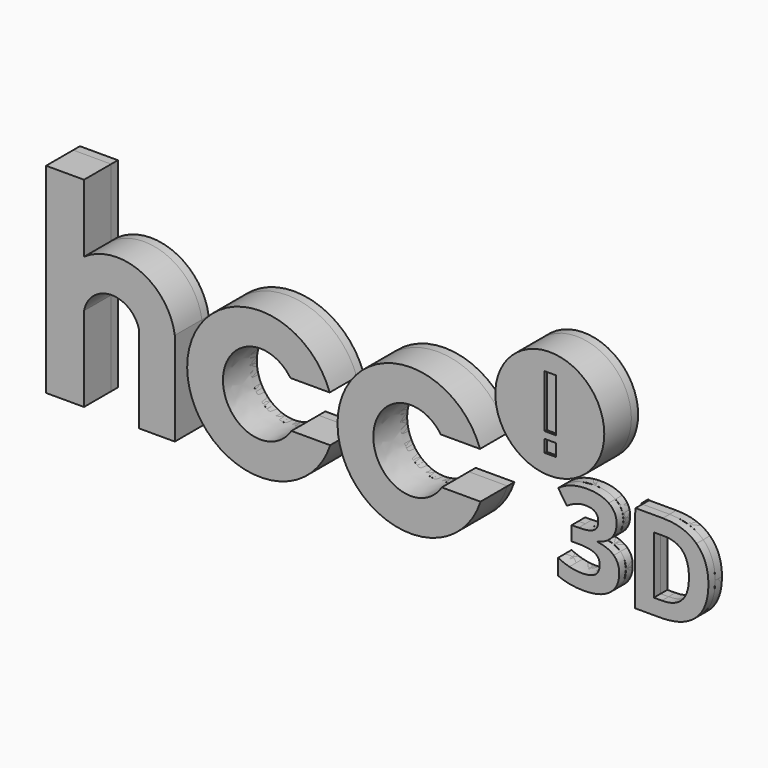
from build123d import *

# Parameters (mm, degrees)
F1_DEPTH = 5
F0_R     = 6.439210956
F0_W     = 1.3290867209
F0_H     = 1.4619943686
F0_H_2   = 6.2467027456
F2_DEPTH = 5
F3_DEPTH = 2
F4_DEPTH = 4.7
F0_W_2   = 0.0251267451
F0_H_3   = 9.9529854488
F0_W_3   = 0.0575991134
F0_H_4   = 0.4837507596
F5_DEPTH = 1


with BuildPart() as f1:
    # F0 (on Front) → F1 (new body)
    with BuildSketch(Plane.XZ):
        with BuildLine():
            Line((-29.2282737792, 4.6801601858), (-29.2282737792, 12.6912826672))
            Line((-29.2282737792, 12.6912826672), (-33.7102425517, 12.6912826672))
            Line((-33.7102425517, 12.6912826672), (-33.7102425517, -10.9479641542))
            Line((-33.7102425517, -10.9479641542), (-29.2282737792, -10.9479641542))
            Line((-29.2282737792, -10.9479641542), (-29.2282737792, -0.9445949108))
            ThreePointArc((-29.2282737792, -0.9445949108), (-26.0764862128, 1.7572958572), (-22.7460581809, -0.7210559561))
            Line((-22.7460581809, -0.7210559561), (-22.7460581809, -11.059734039))
            Line((-22.7460581809, -11.059734039), (-18.4990875423, -11.059734039))
            Line((-18.4990875423, -11.059734039), (-18.4990875423, 0))
            ThreePointArc((-18.4990875423, 0), (-22.5621537173, 5.3238080881), (-29.2282737792, 4.6801601858))
        make_face()
    extrude(amount=F1_DEPTH)


with BuildPart() as f1b:
    # F0 (on Front) → F1, piece 2 (new body)
    with BuildSketch(Plane.XZ):
        with BuildLine():
            Line((-4.8329490161, 0), (-0.2016378159, 0))
            ThreePointArc((-0.2016378159, 0), (-17.038228829, -2.9141086903), (-0.1430585746, -5.4667638717))
            Line((-0.1430585746, -5.4667638717), (-4.7167015358, -5.4667638717))
            add(Edge.make_bspline(
                [(-4.8329490161, 0), (-13.1209155061, 11.9595849865), (-12.8043154556, -2.9291482051), (-12.4877154052, -17.8178813967), (-4.7167015358, -5.4667638717)],
                knots=[5.3507793797, 5.3507793797, 5.3507793797, 7.8767470991, 7.8767470991, 10.4027148184, 10.4027148184, 10.4027148184], degree=2, weights=[1, 0.3029746472, 1, 0.3029746472, 1]))
        make_face()
    extrude(amount=F1_DEPTH)


with BuildPart() as f1c:
    # F0 (on Front) → F1, piece 3 (new body)
    with BuildSketch(Plane.XZ):
        with BuildLine():
            Line((12.9309152329, -0.0940936152), (17.5622264331, -0.0940936152))
            ThreePointArc((17.5622264331, -0.0940936152), (0.72563542, -3.0082023055), (17.6208056744, -5.5608574869))
            Line((17.6208056744, -5.5608574869), (13.0471627132, -5.5608574869))
            add(Edge.make_bspline(
                [(12.9309152329, -0.0940936152), (4.6429487429, 11.8654913713), (4.9595487933, -3.0232418203), (5.2761488438, -17.9119750119), (13.0471627132, -5.5608574869)],
                knots=[5.3507793797, 5.3507793797, 5.3507793797, 7.8767470991, 7.8767470991, 10.4027148184, 10.4027148184, 10.4027148184], degree=2, weights=[1, 0.3029746472, 1, 0.3029746472, 1]))
        make_face()
    extrude(amount=F1_DEPTH)


with BuildPart() as f2:
    # F0 (on Front) → F2 (new body)
    with BuildSketch(Plane.XZ):
        with Locations((25.8087143302, 6.2327678315)):
            Circle(F0_R)
        with Locations((25.8751697838, 2.7106907219)):
            Rectangle(F0_W, F0_H, mode=Mode.SUBTRACT)
        with Locations((25.8751697838, 7.3624905199)):
            Rectangle(F0_W, F0_H_2, mode=Mode.SUBTRACT)
    extrude(amount=F2_DEPTH)


with BuildPart() as f3:
    # F0 (on Front) → F3 (new body)
    with BuildSketch(Plane.XZ):
        with BuildLine():
            Line((36.7643805434, -2.273629724), (33.5463657975, -2.273629724))
            Line((33.5463657975, -2.273629724), (33.5463657975, -2.7573804837))
            Line((33.5463657975, -2.7573804837), (33.4887666842, -2.7573804837))
            Line((33.4887666842, -2.7573804837), (33.4887666842, -12.7103659324))
            Line((33.4887666842, -12.7103659324), (33.5463657975, -12.7103659324))
            Line((33.5463657975, -12.7103659324), (33.6403436959, -12.7103659324))
            Line((33.6403436959, -12.7103659324), (36.444585606, -12.7103659324))
            add(Edge.make_bspline(
                [(40.6807264023, -11.3398162005), (39.2130960644, -12.7103659324), (36.444585606, -12.7103659324)],
                knots=[0, 0, 0, 1, 1, 1], degree=2))
            add(Edge.make_bspline(
                [(42.1483567402, -7.3926329727), (42.1483567402, -9.9692664686), (40.6807264023, -11.3398162005)],
                knots=[0, 0, 0, 1, 1, 1], degree=2))
            add(Edge.make_bspline(
                [(40.7344062668, -3.6224790852), (42.1483567402, -4.9713284463), (42.1483567402, -7.3926329727)],
                knots=[0, 0, 0, 1, 1, 1], degree=2))
            add(Edge.make_bspline(
                [(36.7643805434, -2.273629724), (39.3204557934, -2.273629724), (40.7344062668, -3.6224790852)],
                knots=[0, 0, 0, 1, 1, 1], degree=2))
        make_face()
        with BuildLine():
            add(Edge.make_bspline(
                [(39.8481174402, -7.4497392115), (39.8481174402, -4.0873238692), (36.8785930211, -4.0873238692)],
                knots=[0, 0, 0, 1, 1, 1], degree=2))
            add(Edge.make_bspline(
                [(36.6501680657, -10.8829662899), (39.8481174402, -10.8829662899), (39.8481174402, -7.4497392115)],
                knots=[0, 0, 0, 1, 1, 1], degree=2))
            Line((36.6501680657, -10.8829662899), (35.7022045012, -10.8829662899))
            Line((35.7022045012, -10.8829662899), (35.7022045012, -4.0873238692))
            Line((35.7022045012, -4.0873238692), (36.8785930211, -4.0873238692))
        make_face(mode=Mode.SUBTRACT)
        with BuildLine():
            add(Edge.make_bspline(
                [(31.3050241113, -4.6081327674), (31.3050241113, -5.5857915761), (30.7122613523, -6.2710664421)],
                knots=[0, 0, 0, 1, 1, 1], degree=2))
            add(Edge.make_bspline(
                [(30.366197545, -2.7818752496), (31.3050241113, -3.4385969961), (31.3050241113, -4.6081327674)],
                knots=[0, 0, 0, 1, 1, 1], degree=2))
            add(Edge.make_bspline(
                [(27.8078380454, -2.1251535031), (29.4273709786, -2.1251535031), (30.366197545, -2.7818752496)],
                knots=[0, 0, 0, 1, 1, 1], degree=2))
            add(Edge.make_bspline(
                [(24.4020219617, -3.153065802), (25.8296779324, -2.1251535031), (27.8078380454, -2.1251535031)],
                knots=[0, 0, 0, 1, 1, 1], degree=2))
            Line((24.4020219617, -3.153065802), (25.4230815119, -4.6720917549))
            add(Edge.make_bspline(
                [(26.6040385309, -4.0804711206), (26.071808385, -4.2517898371), (25.4230815119, -4.6720917549)],
                knots=[0, 0, 0, 1, 1, 1], degree=2))
            add(Edge.make_bspline(
                [(27.6502248263, -3.9091524041), (27.1362686768, -3.9091524041), (26.6040385309, -4.0804711206)],
                knots=[0, 0, 0, 1, 1, 1], degree=2))
            add(Edge.make_bspline(
                [(29.1349870358, -5.0946779222), (29.1349870358, -3.9091524041), (27.6502248263, -3.9091524041)],
                knots=[0, 0, 0, 1, 1, 1], degree=2))
            add(Edge.make_bspline(
                [(28.5742037705, -6.1819807095), (29.1349870358, -5.8644700216), (29.1349870358, -5.0946779222)],
                knots=[0, 0, 0, 1, 1, 1], degree=2))
            add(Edge.make_bspline(
                [(26.8004839925, -6.4994913974), (28.0134205052, -6.4994913974), (28.5742037705, -6.1819807095)],
                knots=[0, 0, 0, 1, 1, 1], degree=2))
            Line((26.8004839925, -6.4994913974), (25.9941439002, -6.4994913974))
            Line((25.9941439002, -6.4994913974), (25.9941439002, -8.1921203163))
            Line((25.9941439002, -8.1921203163), (26.7867784952, -8.1921203163))
            add(Edge.make_bspline(
                [(28.699837496, -8.4993518812), (28.1002219882, -8.1921203163), (26.7867784952, -8.1921203163)],
                knots=[0, 0, 0, 1, 1, 1], degree=2))
            add(Edge.make_bspline(
                [(29.2994530037, -9.5398275526), (29.2994530037, -8.8065834461), (28.699837496, -8.4993518812)],
                knots=[0, 0, 0, 1, 1, 1], degree=2))
            add(Edge.make_bspline(
                [(28.7786441055, -10.7333479442), (29.2994530037, -10.3621573918), (29.2994530037, -9.5398275526)],
                knots=[0, 0, 0, 1, 1, 1], degree=2))
            add(Edge.make_bspline(
                [(27.1636796715, -11.1045384966), (28.2578352074, -11.1045384966), (28.7786441055, -10.7333479442)],
                knots=[0, 0, 0, 1, 1, 1], degree=2))
            add(Edge.make_bspline(
                [(25.7223182034, -10.9115194093), (26.4509938109, -11.1045384966), (27.1636796715, -11.1045384966)],
                knots=[0, 0, 0, 1, 1, 1], degree=2))
            add(Edge.make_bspline(
                [(24.3883164644, -10.412410882), (24.9936425959, -10.7185003221), (25.7223182034, -10.9115194093)],
                knots=[0, 0, 0, 1, 1, 1], degree=2))
            Line((24.3883164644, -10.412410882), (24.3883164644, -12.2900640147))
            add(Edge.make_bspline(
                [(27.401241625, -12.8542736543), (25.7017599574, -12.8542736543), (24.3883164644, -12.2900640147)],
                knots=[0, 0, 0, 1, 1, 1], degree=2))
            add(Edge.make_bspline(
                [(30.519242265, -12.0148119435), (29.4273709786, -12.8542736543), (27.401241625, -12.8542736543)],
                knots=[0, 0, 0, 1, 1, 1], degree=2))
            add(Edge.make_bspline(
                [(31.6111135515, -9.6700297772), (31.6111135515, -11.1753502327), (30.519242265, -12.0148119435)],
                knots=[0, 0, 0, 1, 1, 1], degree=2))
            add(Edge.make_bspline(
                [(30.9623866784, -8.0242279741), (31.6111135515, -8.6352647296), (31.6111135515, -9.6700297772)],
                knots=[0, 0, 0, 1, 1, 1], degree=2))
            add(Edge.make_bspline(
                [(29.0481855528, -7.2555779995), (30.3136598053, -7.4131912187), (30.9623866784, -8.0242279741)],
                knots=[0, 0, 0, 1, 1, 1], degree=2))
            Line((29.0481855528, -7.2555779995), (29.0481855528, -7.2144615075))
            add(Edge.make_bspline(
                [(30.7122613523, -6.2710664421), (30.1194985932, -6.956341308), (29.0481855528, -7.2144615075)],
                knots=[0, 0, 0, 1, 1, 1], degree=2))
        make_face()
    extrude(amount=F3_DEPTH)


with BuildPart() as f4:
    # F0 (on Front) → F4 (new body)
    with BuildSketch(Plane.XZ):
        with Locations((25.8751697838, 7.3624905199)):
            Rectangle(F0_W, F0_H_2)
    extrude(amount=F4_DEPTH)


with BuildPart() as f4b:
    # F0 (on Front) → F4, piece 2 (new body)
    with BuildSketch(Plane.XZ):
        with Locations((25.8751697838, 2.7106907219)):
            Rectangle(F0_W, F0_H)
    extrude(amount=F4_DEPTH)


with BuildPart() as f5:
    # F0 (on Front) → F5 (new body)
    with BuildSketch(Plane.XZ):
        with BuildLine():
            Line((-29.2282737792, 4.6801601858), (-29.2282737792, 12.6912826672))
            Line((-29.2282737792, 12.6912826672), (-33.7102425517, 12.6912826672))
            Line((-33.7102425517, 12.6912826672), (-33.7102425517, -10.9479641542))
            Line((-33.7102425517, -10.9479641542), (-29.2282737792, -10.9479641542))
            Line((-29.2282737792, -10.9479641542), (-29.2282737792, -0.9445949108))
            ThreePointArc((-29.2282737792, -0.9445949108), (-26.0764862128, 1.7572958572), (-22.7460581809, -0.7210559561))
            Line((-22.7460581809, -0.7210559561), (-22.7460581809, -11.059734039))
            Line((-22.7460581809, -11.059734039), (-18.4990875423, -11.059734039))
            Line((-18.4990875423, -11.059734039), (-18.4990875423, 0))
            ThreePointArc((-18.4990875423, 0), (-22.5621537173, 5.3238080881), (-29.2282737792, 4.6801601858))
        make_face()
        with BuildLine():
            Line((-4.8329490161, 0), (-0.2016378159, 0))
            ThreePointArc((-0.2016378159, 0), (-17.038228829, -2.9141086903), (-0.1430585746, -5.4667638717))
            Line((-0.1430585746, -5.4667638717), (-4.7167015358, -5.4667638717))
            add(Edge.make_bspline(
                [(-4.8329490161, 0), (-13.1209155061, 11.9595849865), (-12.8043154556, -2.9291482051), (-12.4877154052, -17.8178813967), (-4.7167015358, -5.4667638717)],
                knots=[5.3507793797, 5.3507793797, 5.3507793797, 7.8767470991, 7.8767470991, 10.4027148184, 10.4027148184, 10.4027148184], degree=2, weights=[1, 0.3029746472, 1, 0.3029746472, 1]))
        make_face()
        with BuildLine():
            Line((12.9309152329, -0.0940936152), (17.5622264331, -0.0940936152))
            ThreePointArc((17.5622264331, -0.0940936152), (0.72563542, -3.0082023055), (17.6208056744, -5.5608574869))
            Line((17.6208056744, -5.5608574869), (13.0471627132, -5.5608574869))
            add(Edge.make_bspline(
                [(12.9309152329, -0.0940936152), (4.6429487429, 11.8654913713), (4.9595487933, -3.0232418203), (5.2761488438, -17.9119750119), (13.0471627132, -5.5608574869)],
                knots=[5.3507793797, 5.3507793797, 5.3507793797, 7.8767470991, 7.8767470991, 10.4027148184, 10.4027148184, 10.4027148184], degree=2, weights=[1, 0.3029746472, 1, 0.3029746472, 1]))
        make_face()
        with Locations((25.8087143302, 6.2327678315)):
            Circle(F0_R)
        with Locations((25.8751697838, 2.7106907219)):
            Rectangle(F0_W, F0_H, mode=Mode.SUBTRACT)
        with Locations((25.8751697838, 7.3624905199)):
            Rectangle(F0_W, F0_H_2, mode=Mode.SUBTRACT)
        Polygon((33.5463657975, -2.1845439915), (33.4636399391, -2.1845439915), (33.4636399391, -2.7573804837), (33.4887666842, -2.7573804837), (33.4887666842, -2.273629724), (33.5463657975, -2.273629724), align=None)
        with Locations((33.4762033116, -7.7338732081)):
            Rectangle(F0_W_2, F0_H_3)
        with BuildLine():
            Line((36.7643805434, -2.273629724), (33.5463657975, -2.273629724))
            Line((33.5463657975, -2.273629724), (33.5463657975, -2.7573804837))
            Line((33.5463657975, -2.7573804837), (33.4887666842, -2.7573804837))
            Line((33.4887666842, -2.7573804837), (33.4887666842, -12.7103659324))
            Line((33.4887666842, -12.7103659324), (33.5463657975, -12.7103659324))
            Line((33.5463657975, -12.7103659324), (33.6403436959, -12.7103659324))
            Line((33.6403436959, -12.7103659324), (36.444585606, -12.7103659324))
            add(Edge.make_bspline(
                [(40.6807264023, -11.3398162005), (39.2130960644, -12.7103659324), (36.444585606, -12.7103659324)],
                knots=[0, 0, 0, 1, 1, 1], degree=2))
            add(Edge.make_bspline(
                [(42.1483567402, -7.3926329727), (42.1483567402, -9.9692664686), (40.6807264023, -11.3398162005)],
                knots=[0, 0, 0, 1, 1, 1], degree=2))
            add(Edge.make_bspline(
                [(40.7344062668, -3.6224790852), (42.1483567402, -4.9713284463), (42.1483567402, -7.3926329727)],
                knots=[0, 0, 0, 1, 1, 1], degree=2))
            add(Edge.make_bspline(
                [(36.7643805434, -2.273629724), (39.3204557934, -2.273629724), (40.7344062668, -3.6224790852)],
                knots=[0, 0, 0, 1, 1, 1], degree=2))
        make_face()
        with BuildLine():
            add(Edge.make_bspline(
                [(39.8481174402, -7.4497392115), (39.8481174402, -4.0873238692), (36.8785930211, -4.0873238692)],
                knots=[0, 0, 0, 1, 1, 1], degree=2))
            add(Edge.make_bspline(
                [(36.6501680657, -10.8829662899), (39.8481174402, -10.8829662899), (39.8481174402, -7.4497392115)],
                knots=[0, 0, 0, 1, 1, 1], degree=2))
            Line((36.6501680657, -10.8829662899), (35.7022045012, -10.8829662899))
            Line((35.7022045012, -10.8829662899), (35.7022045012, -4.0873238692))
            Line((35.7022045012, -4.0873238692), (36.8785930211, -4.0873238692))
        make_face(mode=Mode.SUBTRACT)
        with Locations((33.5175662408, -2.5155051039)):
            Rectangle(F0_W_3, F0_H_4)
        Polygon((33.4887666842, -12.7103659324), (33.4636399391, -12.7103659324), (33.4636399391, -12.9114397409), (33.5463657975, -12.9114397409), (33.5463657975, -12.7103659324), align=None)
        with BuildLine():
            add(Edge.make_bspline(
                [(31.3050241113, -4.6081327674), (31.3050241113, -5.5857915761), (30.7122613523, -6.2710664421)],
                knots=[0, 0, 0, 1, 1, 1], degree=2))
            add(Edge.make_bspline(
                [(30.366197545, -2.7818752496), (31.3050241113, -3.4385969961), (31.3050241113, -4.6081327674)],
                knots=[0, 0, 0, 1, 1, 1], degree=2))
            add(Edge.make_bspline(
                [(27.8078380454, -2.1251535031), (29.4273709786, -2.1251535031), (30.366197545, -2.7818752496)],
                knots=[0, 0, 0, 1, 1, 1], degree=2))
            add(Edge.make_bspline(
                [(24.4020219617, -3.153065802), (25.8296779324, -2.1251535031), (27.8078380454, -2.1251535031)],
                knots=[0, 0, 0, 1, 1, 1], degree=2))
            Line((24.4020219617, -3.153065802), (25.4230815119, -4.6720917549))
            add(Edge.make_bspline(
                [(26.6040385309, -4.0804711206), (26.071808385, -4.2517898371), (25.4230815119, -4.6720917549)],
                knots=[0, 0, 0, 1, 1, 1], degree=2))
            add(Edge.make_bspline(
                [(27.6502248263, -3.9091524041), (27.1362686768, -3.9091524041), (26.6040385309, -4.0804711206)],
                knots=[0, 0, 0, 1, 1, 1], degree=2))
            add(Edge.make_bspline(
                [(29.1349870358, -5.0946779222), (29.1349870358, -3.9091524041), (27.6502248263, -3.9091524041)],
                knots=[0, 0, 0, 1, 1, 1], degree=2))
            add(Edge.make_bspline(
                [(28.5742037705, -6.1819807095), (29.1349870358, -5.8644700216), (29.1349870358, -5.0946779222)],
                knots=[0, 0, 0, 1, 1, 1], degree=2))
            add(Edge.make_bspline(
                [(26.8004839925, -6.4994913974), (28.0134205052, -6.4994913974), (28.5742037705, -6.1819807095)],
                knots=[0, 0, 0, 1, 1, 1], degree=2))
            Line((26.8004839925, -6.4994913974), (25.9941439002, -6.4994913974))
            Line((25.9941439002, -6.4994913974), (25.9941439002, -8.1921203163))
            Line((25.9941439002, -8.1921203163), (26.7867784952, -8.1921203163))
            add(Edge.make_bspline(
                [(28.699837496, -8.4993518812), (28.1002219882, -8.1921203163), (26.7867784952, -8.1921203163)],
                knots=[0, 0, 0, 1, 1, 1], degree=2))
            add(Edge.make_bspline(
                [(29.2994530037, -9.5398275526), (29.2994530037, -8.8065834461), (28.699837496, -8.4993518812)],
                knots=[0, 0, 0, 1, 1, 1], degree=2))
            add(Edge.make_bspline(
                [(28.7786441055, -10.7333479442), (29.2994530037, -10.3621573918), (29.2994530037, -9.5398275526)],
                knots=[0, 0, 0, 1, 1, 1], degree=2))
            add(Edge.make_bspline(
                [(27.1636796715, -11.1045384966), (28.2578352074, -11.1045384966), (28.7786441055, -10.7333479442)],
                knots=[0, 0, 0, 1, 1, 1], degree=2))
            add(Edge.make_bspline(
                [(25.7223182034, -10.9115194093), (26.4509938109, -11.1045384966), (27.1636796715, -11.1045384966)],
                knots=[0, 0, 0, 1, 1, 1], degree=2))
            add(Edge.make_bspline(
                [(24.3883164644, -10.412410882), (24.9936425959, -10.7185003221), (25.7223182034, -10.9115194093)],
                knots=[0, 0, 0, 1, 1, 1], degree=2))
            Line((24.3883164644, -10.412410882), (24.3883164644, -12.2900640147))
            add(Edge.make_bspline(
                [(27.401241625, -12.8542736543), (25.7017599574, -12.8542736543), (24.3883164644, -12.2900640147)],
                knots=[0, 0, 0, 1, 1, 1], degree=2))
            add(Edge.make_bspline(
                [(30.519242265, -12.0148119435), (29.4273709786, -12.8542736543), (27.401241625, -12.8542736543)],
                knots=[0, 0, 0, 1, 1, 1], degree=2))
            add(Edge.make_bspline(
                [(31.6111135515, -9.6700297772), (31.6111135515, -11.1753502327), (30.519242265, -12.0148119435)],
                knots=[0, 0, 0, 1, 1, 1], degree=2))
            add(Edge.make_bspline(
                [(30.9623866784, -8.0242279741), (31.6111135515, -8.6352647296), (31.6111135515, -9.6700297772)],
                knots=[0, 0, 0, 1, 1, 1], degree=2))
            add(Edge.make_bspline(
                [(29.0481855528, -7.2555779995), (30.3136598053, -7.4131912187), (30.9623866784, -8.0242279741)],
                knots=[0, 0, 0, 1, 1, 1], degree=2))
            Line((29.0481855528, -7.2555779995), (29.0481855528, -7.2144615075))
            add(Edge.make_bspline(
                [(30.7122613523, -6.2710664421), (30.1194985932, -6.956341308), (29.0481855528, -7.2144615075)],
                knots=[0, 0, 0, 1, 1, 1], degree=2))
        make_face()
    extrude(amount=F5_DEPTH)


solid = Compound([f1.part, f1b.part, f1c.part, f2.part, f3.part, f4.part, f4b.part, f5.part])
